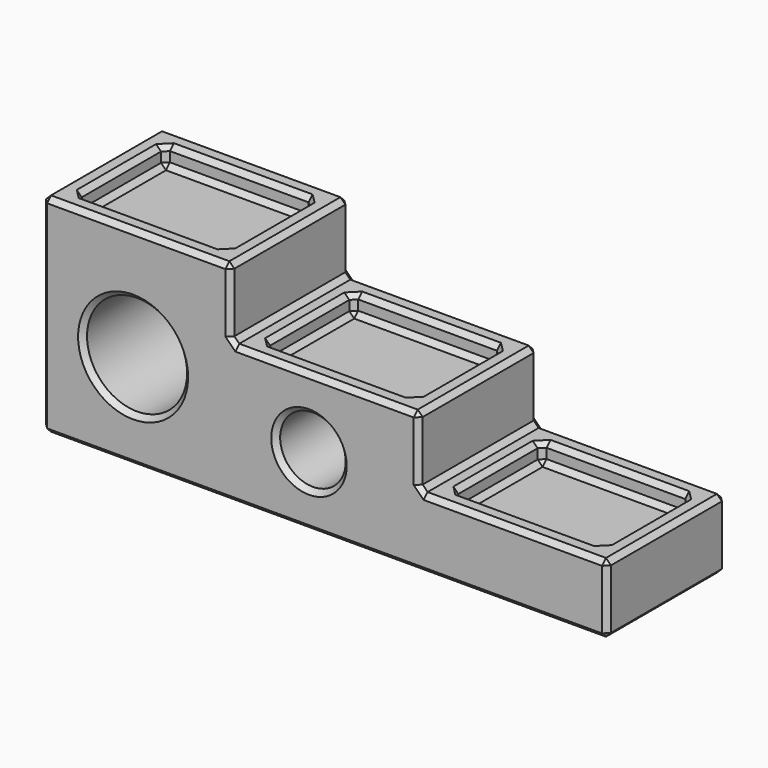
from build123d import *

# Parameters (mm, degrees)
F1_DEPTH = 15
F2_W     = 15
F2_H     = 11
F3_DEPTH = 2
F4_W     = 15
F4_H     = 11
F5_DEPTH = 2
F6_W     = 15
F6_H     = 11
F7_DEPTH = 2
F8_R     = 5.0490576708
F8_R_2   = 3.3064533544
F9_DEPTH = 25
F10_SIZE = 0.5


with BuildPart() as f1:
    # F0 (on Front) → F1 (new body)
    with BuildSketch(Plane.XZ):
        Polygon((0, 21), (0, 0), (57, 0), (57, 7), (38, 7), (38, 14), (19, 14), (19, 21), align=None)
    extrude(amount=F1_DEPTH)

    # F2 (on face) → F3 (cut)
    with BuildSketch(Plane.XY.offset(21)):
        with Locations((9.5, -7.5)):
            Rectangle(F2_W, F2_H)
    extrude(amount=-F3_DEPTH, mode=Mode.SUBTRACT)

    # F4 (on face) → F5 (cut)
    with BuildSketch(Plane.XY.offset(14)):
        with Locations((28.4999978542, -7.5)):
            Rectangle(F4_W, F4_H)
    extrude(amount=-F5_DEPTH, mode=Mode.SUBTRACT)

    # F6 (on face) → F7 (cut)
    with BuildSketch(Plane.XY.offset(7)):
        with Locations((47.5, -7.5)):
            Rectangle(F6_W, F6_H)
    extrude(amount=-F7_DEPTH, mode=Mode.SUBTRACT)

    # F8 (on face) → F9 (cut)
    with BuildSketch(Plane.XZ.offset(15)):
        with Locations((9.1822175309, 9.6681341529)):
            Circle(F8_R)
        with Locations((26.9286967814, 7)):
            Circle(F8_R_2)
    extrude(amount=-F9_DEPTH, mode=Mode.SUBTRACT)

    # F10
    f10_edges = [f1.edges().sort_by_distance(p)[0] for p in [
        (28.5, 0, 14),
        (28.5, -15, 14),
        (47.5, 0, 7),
        (0, -7.5, 21),
        (0, -7.5, 0),
        (0, 0, 10.5),
        (0, -15, 10.5),
        (28.5, -15, 0),
        (19, -7.5, 14),
        (19, -7.5, 21),
        (19, 0, 17.5),
        (19, -15, 17.5),
        (38, -7.5, 7),
        (38, -7.5, 14),
        (38, 0, 10.5),
        (38, -15, 10.5),
        (57, -7.5, 0),
        (57, -7.5, 7),
        (57, 0, 3.5),
        (57, -15, 3.5),
        (4.13316, -15, 9.668134),
        (14.231275, -7.5, 9.668134),
        (4.13316, 0, 9.668134),
        (28.5, 0, 0),
        (47.5, -15, 7),
        (9.5, 0, 21),
        (9.5, -15, 21),
        (2, -13, 20),
        (17, -13, 20),
        (9.5, -13, 21),
        (9.5, -13, 19),
        (2, -7.5, 19),
        (17, -7.5, 19),
        (9.5, -2, 19),
        (17, -2, 20),
        (2, -2, 20),
        (9.5, -2, 21),
        (2, -7.5, 21),
        (17, -7.5, 21),
        (20.999998, -13, 13),
        (35.999998, -13, 13),
        (28.499998, -13, 14),
        (28.499998, -13, 12),
        (28.499998, -2, 12),
        (20.999998, -7.5, 12),
        (35.999998, -7.5, 12),
        (35.999998, -2, 13),
        (20.999998, -2, 13),
        (28.499998, -2, 14),
        (20.999998, -7.5, 14),
        (35.999998, -7.5, 14),
        (40, -13, 6),
        (55, -13, 6),
        (47.5, -13, 7),
        (47.5, -13, 5),
        (40, -7.5, 5),
        (55, -7.5, 5),
        (47.5, -2, 5),
        (55, -2, 6),
        (40, -2, 6),
        (47.5, -2, 7),
        (40, -7.5, 7),
        (55, -7.5, 7),
        (23.622243, -15, 7),
        (30.23515, -7.5, 7),
        (23.622243, 0, 7),
    ]]
    chamfer(f10_edges, length=F10_SIZE)


solid = f1.part
